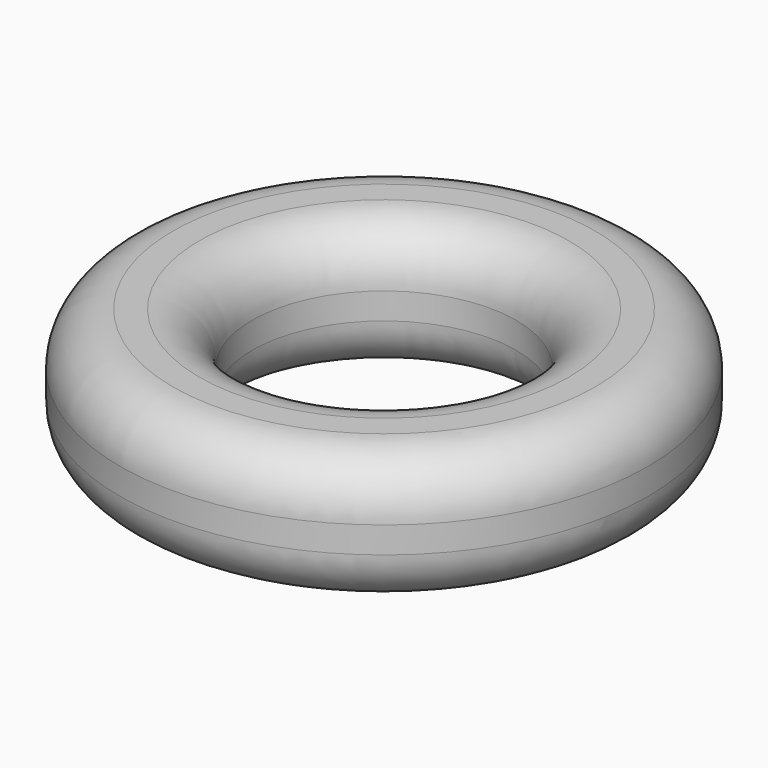
from build123d import *

# Parameters (mm, degrees)
F0_R     = 50
F1_DEPTH = 12.5
F2_R     = 25
F3_DEPTH = 25
F4_R     = 10


with BuildPart() as f1:
    # F0 (on Top) → F1 (new body, symmetric)
    with BuildSketch(Plane.XY):
        Circle(F0_R)
    extrude(amount=F1_DEPTH, both=True)

    # F2 (on face) → F3 (cut)
    with BuildSketch(Plane.XY.offset(12.5)):
        Circle(F2_R)
    extrude(amount=-F3_DEPTH, mode=Mode.SUBTRACT)

    # F4
    f4_edges = [f1.edges().sort_by_distance(p)[0] for p in [
        (-50, 0, 12.5),
        (-50, 0, -12.5),
        (-25, 0, 12.5),
        (-25, 0, -12.5),
    ]]
    fillet(f4_edges, radius=F4_R)


solid = f1.part
